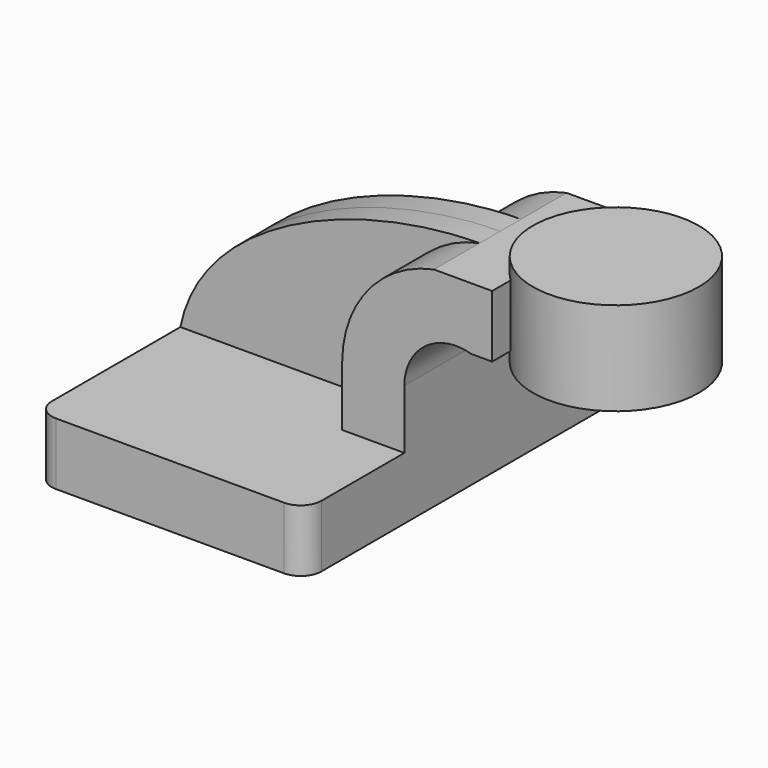
from build123d import *

# Parameters (mm, degrees)
F1_DEPTH = 63.5
F2_DEPTH = 7.9375
F3_DEPTH = 25.4
F0_W     = 25.4
F0_H     = 28.575
F5_R     = 6.35


with BuildPart() as f1:
    # F0 (on Front) → F1 (new body, symmetric)
    with BuildSketch(Plane.XZ):
        Polygon((41.275, -9.525), (41.275, 9.525), (22.225, 9.525), (-41.275, 9.525), (-41.275, -9.525), align=None)
    extrude(amount=F1_DEPTH, both=True)

    # F0 (on Front) → F2 (join, symmetric)
    with BuildSketch(Plane.XZ):
        with BuildLine():
            Line((-41.275, 9.525), (22.225, 9.525))
            Line((22.225, 9.525), (22.225, 27.673652))
            ThreePointArc((22.225, 27.673652), (30.148747, 49.82513), (50.324526, 61.9252))
            add(Edge.make_bspline(
                [(-41.275, 9.525), (-34.773878, 42.640614), (12.253828, 61.712361), (50.324526, 61.9252)],
                knots=[0, 0, 0, 0, 105.528452, 105.528452, 105.528452, 105.528452], degree=3))
        make_face()
    extrude(amount=F2_DEPTH, both=True)

    # F0 (on Front) → F3 (join, symmetric)
    with BuildSketch(Plane.XZ):
        with BuildLine():
            Line((22.225, 9.525), (41.275, 9.525))
            Line((41.275, 9.525), (41.275, 27.673652))
            ThreePointArc((41.275, 27.673652), (47.109768, 39.970374), (60.325, 43.227912))
            Line((60.325, 43.227912), (60.325, 61.9252))
            Line((60.325, 61.9252), (50.324526, 61.9252))
            ThreePointArc((50.324526, 61.9252), (30.148747, 49.82513), (22.225, 27.673652))
            Line((22.225, 27.673652), (22.225, 9.525))
        make_face()
        with BuildLine():
            Line((60.325, 61.9252), (60.325, 43.227912))
            ThreePointArc((60.325, 43.227912), (61.028899, 43.067475), (61.724775, 42.8752))
            Line((61.724775, 42.8752), (68.150982, 42.8752))
            Line((68.150982, 42.8752), (68.150982, 61.9252))
            Line((68.150982, 61.9252), (60.325, 61.9252))
        make_face()
    extrude(amount=F3_DEPTH, both=True)

    # F0 (on Front) → F4 (revolve)
    with BuildSketch(Plane.XZ):
        with Locations((98.425, 52.3875)):
            Rectangle(F0_W, F0_H)
    revolve(axis=Axis((85.725, 0, 52.3875), (0, 0, -1)))

    # F5
    f5_edges = [f1.edges().sort_by_distance(p)[0] for p in [
        (41.275, -63.5, 0),
        (-41.275, -63.5, 0),
        (41.275, 63.5, 0),
        (-41.275, 63.5, 0),
    ]]
    fillet(f5_edges, radius=F5_R)


solid = f1.part
